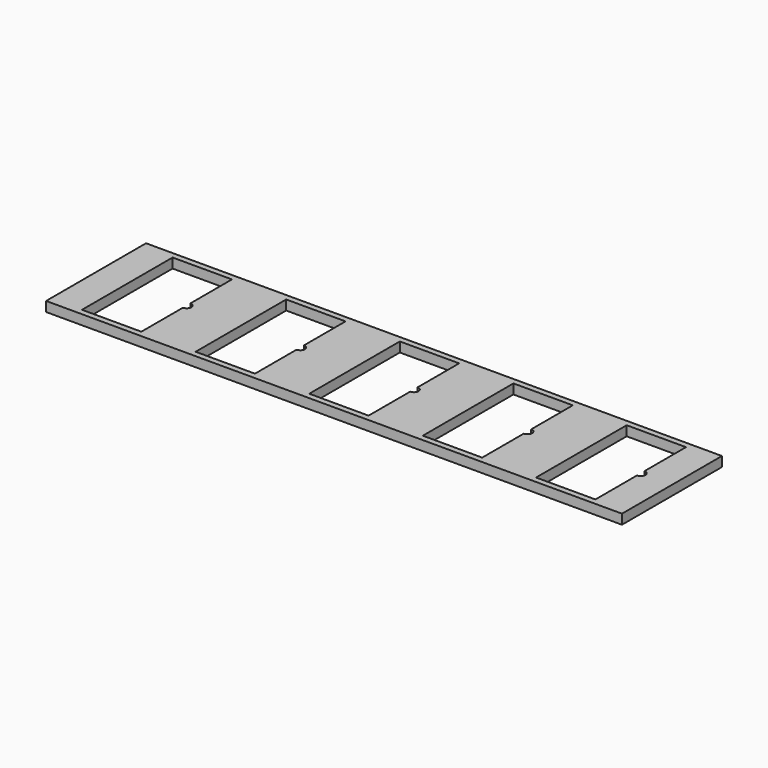
from build123d import *

# Parameters (mm, degrees)
F0_W     = 187.325
F0_H     = 40.64
F0_W_2   = 19.304
F0_H_2   = 36.83
F1_DEPTH = 3.175
F2_R     = 1.524
F3_DEPTH = 6.35


with BuildPart() as f1:
    # F0 (on Top) → F1 (new body)
    with BuildSketch(Plane.XY):
        with Locations((50.084582, -2.391732)):
            Rectangle(F0_W, F0_H)
        with Locations((50.148082, -2.391732)):
            Rectangle(F0_W_2, F0_H_2, mode=Mode.SUBTRACT)
        with Locations((-23.765918, -2.391732)):
            Rectangle(F0_W_2, F0_H_2, mode=Mode.SUBTRACT)
        with Locations((13.191082, -2.391732)):
            Rectangle(F0_W_2, F0_H_2, mode=Mode.SUBTRACT)
        with Locations((87.105082, -2.391732)):
            Rectangle(F0_W_2, F0_H_2, mode=Mode.SUBTRACT)
        with Locations((123.935082, -2.391732)):
            Rectangle(F0_W_2, F0_H_2, mode=Mode.SUBTRACT)
    extrude(amount=F1_DEPTH)

    # F2 (on face) → F3 (cut, symmetric)
    with BuildSketch(Plane.XY.offset(3.175)):
        with Locations((-14.113918, -2.391732)):
            Circle(F2_R)
        with Locations((22.843082, -2.391732)):
            Circle(F2_R)
        with Locations((59.800082, -2.391732)):
            Circle(F2_R)
        with Locations((96.757082, -2.391732)):
            Circle(F2_R)
        with Locations((133.587082, -2.391732)):
            Circle(F2_R)
    extrude(amount=F3_DEPTH, both=True, mode=Mode.SUBTRACT)


solid = f1.part
